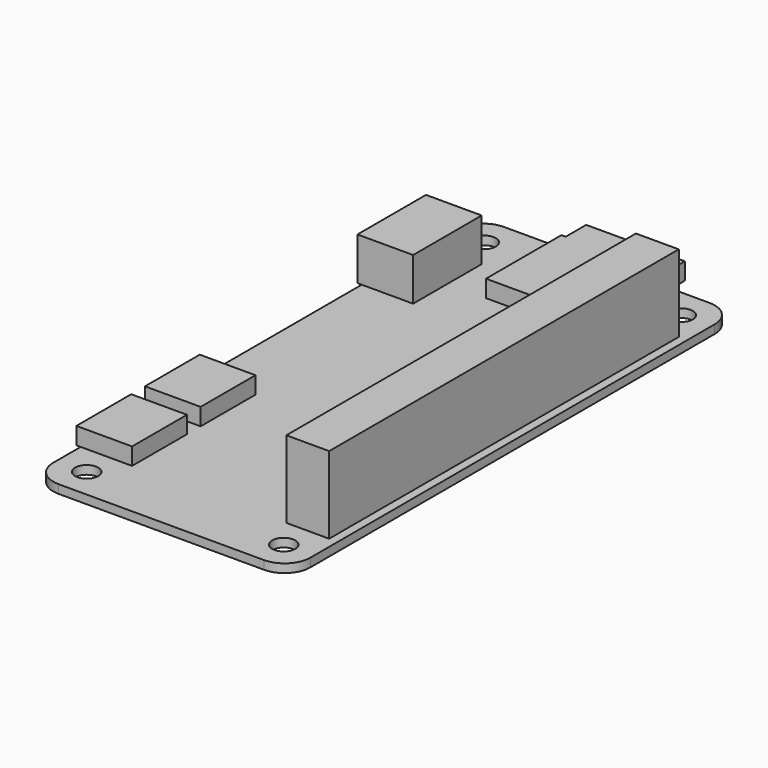
from build123d import *

# Parameters (mm, degrees)
CYLINDER002_R             = 1.35
CYLINDER002_DEPTH         = 10
CYLINDER001_R             = 1.35
CYLINDER001_DEPTH         = 10
CYLINDER_R                = 1.35
CYLINDER_DEPTH            = 10
CYLINDER003_R             = 1.35
CYLINDER003_DEPTH         = 10
BOX_W                     = 30
BOX_H                     = 65
BOX_DEPTH                 = 1
FILLET_R                  = 3
BOX005_W                  = 12.5
BOX005_H                  = 11
BOX005_DEPTH              = 2
BOX001_W                  = 5
BOX001_H                  = 51
BOX001_DEPTH              = 10
BOX002_W                  = 6.5
BOX002_H                  = 10
BOX002_DEPTH              = 5
BOX003_W                  = 6.5
BOX003_H                  = 8
BOX003_DEPTH              = 2
BOX004_W                  = 6.5
BOX004_H                  = 8
BOX004_DEPTH              = 2
BOX006_W                  = 11.5
BOX006_H                  = 11
BOX006_DEPTH              = 2
FUSION002_PLACEMENT_ANGLE = 180


with BuildPart() as cylinder002:
    # Cylinder002 → Cylinder002 (new body)
    with BuildSketch(Plane(origin=(26.5, 61.5, 0), x_dir=(1, 0, 0), z_dir=(0, 0, 1))):
        Circle(CYLINDER002_R)
    extrude(amount=CYLINDER002_DEPTH)


with BuildPart() as cylinder001:
    # Cylinder001 → Cylinder001 (new body)
    with BuildSketch(Plane(origin=(3.5, 61.5, 0), x_dir=(1, 0, 0), z_dir=(0, 0, 1))):
        Circle(CYLINDER001_R)
    extrude(amount=CYLINDER001_DEPTH)


with BuildPart() as cylinder:
    # Cylinder → Cylinder (new body)
    with BuildSketch(Plane(origin=(3.5, 3.5, 0), x_dir=(1, 0, 0), z_dir=(0, 0, 1))):
        Circle(CYLINDER_R)
    extrude(amount=CYLINDER_DEPTH)


with BuildPart() as fusion:
    # Cylinder003 → Cylinder003 (new body)
    with BuildSketch(Plane(origin=(26.5, 3.5, 0), x_dir=(1, 0, 0), z_dir=(0, 0, 1))):
        Circle(CYLINDER003_R)
    extrude(amount=CYLINDER003_DEPTH)

    # Fusion: union Cylinder002, Cylinder001, Cylinder
    add(cylinder002.part)
    add(cylinder001.part)
    add(cylinder.part)


with BuildPart() as cut:
    # Box → Box (new body)
    with BuildSketch(Plane.XY):
        with Locations((15, 32.5)):
            Rectangle(BOX_W, BOX_H)
    extrude(amount=BOX_DEPTH)

    # Fillet
    fillet_edges = [cut.edges().sort_by_distance(p)[0] for p in [
        (0, 0, 0.5),
        (0, 65, 0.5),
        (30, 0, 0.5),
        (30, 65, 0.5),
    ]]
    fillet(fillet_edges, radius=FILLET_R)

    # Cut: cut Fusion
    add(fusion.part, mode=Mode.SUBTRACT)


with BuildPart() as cube005:
    # Box005 → Box005 (new body)
    with BuildSketch(Plane(origin=(7, 1, 1), x_dir=(1, 0, 0), z_dir=(0, 0, 1))):
        with Locations((6.25, 5.5)):
            Rectangle(BOX005_W, BOX005_H)
    extrude(amount=BOX005_DEPTH)


with BuildPart() as cube001:
    # Box001 → Box001 (new body)
    with BuildSketch(Plane(origin=(1, 7, 0), x_dir=(1, 0, 0), z_dir=(0, 0, 1))):
        with Locations((2.5, 25.5)):
            Rectangle(BOX001_W, BOX001_H)
    extrude(amount=BOX001_DEPTH)


with BuildPart() as cube002:
    # Box002 → Box002 (new body)
    with BuildSketch(Plane(origin=(24, 7, 1), x_dir=(1, 0, 0), z_dir=(0, 0, 1))):
        with Locations((3.25, 5)):
            Rectangle(BOX002_W, BOX002_H)
    extrude(amount=BOX002_DEPTH)


with BuildPart() as cube003:
    # Box003 → Box003 (new body)
    with BuildSketch(Plane(origin=(24, 50, 1), x_dir=(1, 0, 0), z_dir=(0, 0, 1))):
        with Locations((3.25, 4)):
            Rectangle(BOX003_W, BOX003_H)
    extrude(amount=BOX003_DEPTH)


with BuildPart() as cube004:
    # Box004 → Box004 (new body)
    with BuildSketch(Plane(origin=(24, 40, 1), x_dir=(1, 0, 0), z_dir=(0, 0, 1))):
        with Locations((3.25, 4)):
            Rectangle(BOX004_W, BOX004_H)
    extrude(amount=BOX004_DEPTH)


with BuildPart() as obj1:
    # Box006 → Box006 (new body)
    with BuildSketch(Plane(origin=(7.5, -2, 1), x_dir=(1, 0, 0), z_dir=(0, 0, 1))):
        with Locations((5.75, 5.5)):
            Rectangle(BOX006_W, BOX006_H)
    extrude(amount=BOX006_DEPTH)

    # Fusion002: union Cut, Cube005, Cube001, Cube002, Cube003, Cube004
    add(cut.part)
    add(cube005.part)
    add(cube001.part)
    add(cube002.part)
    add(cube003.part)
    add(cube004.part)


with BuildPart() as obj1_1:
    # Fusion002 placement: moved
    add(obj1.part.moved(Location((0, 29, 5))).rotate(Axis((0, 29, 5), (0, 0, 1)), FUSION002_PLACEMENT_ANGLE))


solid = obj1_1.part
